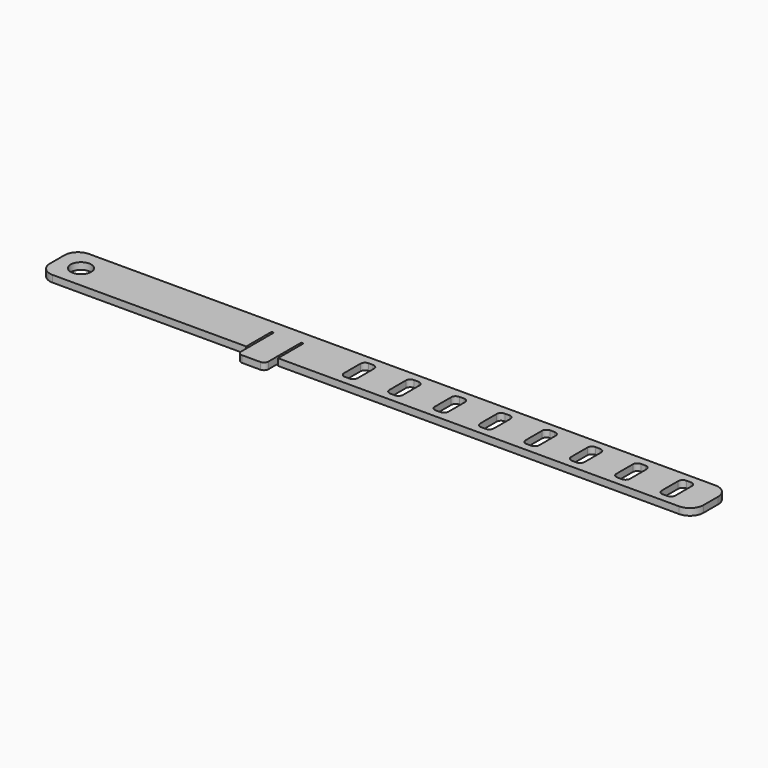
from build123d import *

# Parameters (mm, degrees)
F0_R     = 2.25
F1_DEPTH = 1.5
F2_R     = 1


with BuildPart() as f1:
    # F0 (on Top) → F1 (new body)
    with BuildSketch(Plane.XY):
        with BuildLine():
            Line((-19.346866, -5), (69, -5))
            ThreePointArc((69, -5), (71.12132, -4.12132), (72, -2))
            Line((72, -2), (72, 2))
            ThreePointArc((72, 2), (71.12132, 4.12132), (69, 5))
            Line((69, 5), (-69, 5))
            ThreePointArc((-69, 5), (-71.12132, 4.12132), (-72, 2))
            Line((-72, 2), (-72, -2))
            ThreePointArc((-72, -2), (-71.12132, -4.12132), (-69, -5))
            Line((-69, -5), (-26.346866, -5))
            Line((-26.346866, -5), (-26.346866, 2))
            Line((-26.346866, 2), (-25.846866, 2))
            Line((-25.846866, 2), (-19.846866, 2))
            Line((-19.846866, 2), (-19.346866, 2))
            Line((-19.346866, 2), (-19.346866, -5))
        make_face()
        with Locations((-66.75, 0)):
            Circle(F0_R, mode=Mode.SUBTRACT)
        with BuildLine():
            ThreePointArc((-4, -2.25), (-4.292893, -2.957107), (-5, -3.25))
            Line((-5, -3.25), (-6, -3.25))
            ThreePointArc((-6, -3.25), (-6.707107, -2.957107), (-7, -2.25))
            Line((-7, -2.25), (-7, 2.25))
            ThreePointArc((-7, 2.25), (-6.707107, 2.957107), (-6, 3.25))
            Line((-6, 3.25), (-5, 3.25))
            ThreePointArc((-5, 3.25), (-4.292893, 2.957107), (-4, 2.25))
            Line((-4, 2.25), (-4, -2.25))
        make_face(mode=Mode.SUBTRACT)
        with BuildLine():
            ThreePointArc((4, -3.25), (3.292893, -2.957107), (3, -2.25))
            Line((3, -2.25), (3, 2.25))
            ThreePointArc((3, 2.25), (3.292893, 2.957107), (4, 3.25))
            Line((4, 3.25), (5, 3.25))
            ThreePointArc((5, 3.25), (5.707107, 2.957107), (6, 2.25))
            Line((6, 2.25), (6, -2.25))
            ThreePointArc((6, -2.25), (5.707107, -2.957107), (5, -3.25))
            Line((5, -3.25), (4, -3.25))
        make_face(mode=Mode.SUBTRACT)
        with BuildLine():
            ThreePointArc((14, -3.25), (13.292893, -2.957107), (13, -2.25))
            Line((13, -2.25), (13, 2.25))
            ThreePointArc((13, 2.25), (13.292893, 2.957107), (14, 3.25))
            Line((14, 3.25), (15, 3.25))
            ThreePointArc((15, 3.25), (15.707107, 2.957107), (16, 2.25))
            Line((16, 2.25), (16, -2.25))
            ThreePointArc((16, -2.25), (15.707107, -2.957107), (15, -3.25))
            Line((15, -3.25), (14, -3.25))
        make_face(mode=Mode.SUBTRACT)
        with BuildLine():
            ThreePointArc((24, -3.25), (23.292893, -2.957107), (23, -2.25))
            Line((23, -2.25), (23, 2.25))
            ThreePointArc((23, 2.25), (23.292893, 2.957107), (24, 3.25))
            Line((24, 3.25), (25, 3.25))
            ThreePointArc((25, 3.25), (25.707107, 2.957107), (26, 2.25))
            Line((26, 2.25), (26, -2.25))
            ThreePointArc((26, -2.25), (25.707107, -2.957107), (25, -3.25))
            Line((25, -3.25), (24, -3.25))
        make_face(mode=Mode.SUBTRACT)
        with BuildLine():
            ThreePointArc((34, -3.25), (33.292893, -2.957107), (33, -2.25))
            Line((33, -2.25), (33, 2.25))
            ThreePointArc((33, 2.25), (33.292893, 2.957107), (34, 3.25))
            Line((34, 3.25), (35, 3.25))
            ThreePointArc((35, 3.25), (35.707107, 2.957107), (36, 2.25))
            Line((36, 2.25), (36, -2.25))
            ThreePointArc((36, -2.25), (35.707107, -2.957107), (35, -3.25))
            Line((35, -3.25), (34, -3.25))
        make_face(mode=Mode.SUBTRACT)
        with BuildLine():
            ThreePointArc((44, -3.25), (43.292893, -2.957107), (43, -2.25))
            Line((43, -2.25), (43, 2.25))
            ThreePointArc((43, 2.25), (43.292893, 2.957107), (44, 3.25))
            Line((44, 3.25), (45, 3.25))
            ThreePointArc((45, 3.25), (45.707107, 2.957107), (46, 2.25))
            Line((46, 2.25), (46, -2.25))
            ThreePointArc((46, -2.25), (45.707107, -2.957107), (45, -3.25))
            Line((45, -3.25), (44, -3.25))
        make_face(mode=Mode.SUBTRACT)
        with BuildLine():
            ThreePointArc((54, -3.25), (53.292893, -2.957107), (53, -2.25))
            Line((53, -2.25), (53, 2.25))
            ThreePointArc((53, 2.25), (53.292893, 2.957107), (54, 3.25))
            Line((54, 3.25), (55, 3.25))
            ThreePointArc((55, 3.25), (55.707107, 2.957107), (56, 2.25))
            Line((56, 2.25), (56, -2.25))
            ThreePointArc((56, -2.25), (55.707107, -2.957107), (55, -3.25))
            Line((55, -3.25), (54, -3.25))
        make_face(mode=Mode.SUBTRACT)
        with BuildLine():
            ThreePointArc((64, -3.25), (63.292893, -2.957107), (63, -2.25))
            Line((63, -2.25), (63, 2.25))
            ThreePointArc((63, 2.25), (63.292893, 2.957107), (64, 3.25))
            Line((64, 3.25), (65, 3.25))
            ThreePointArc((65, 3.25), (65.707107, 2.957107), (66, 2.25))
            Line((66, 2.25), (66, -2.25))
            ThreePointArc((66, -2.25), (65.707107, -2.957107), (65, -3.25))
            Line((65, -3.25), (64, -3.25))
        make_face(mode=Mode.SUBTRACT)
        Polygon((-19.846866, -8), (-19.846866, -5), (-19.846866, 2), (-25.846866, 2), (-25.846866, -5), (-25.846866, -8), align=None)
        Polygon((-19.846866, -8), (-19.846866, -5), (-19.846866, 2), (-25.846866, 2), (-25.846866, -5), (-25.846866, -8), align=None)
    extrude(amount=F1_DEPTH)

    # F2
    f2_edges = [f1.edges().sort_by_distance(p)[0] for p in [
        (-25.846866, -8, 0.75),
        (-19.846866, -8, 0.75),
    ]]
    fillet(f2_edges, radius=F2_R)


solid = f1.part
